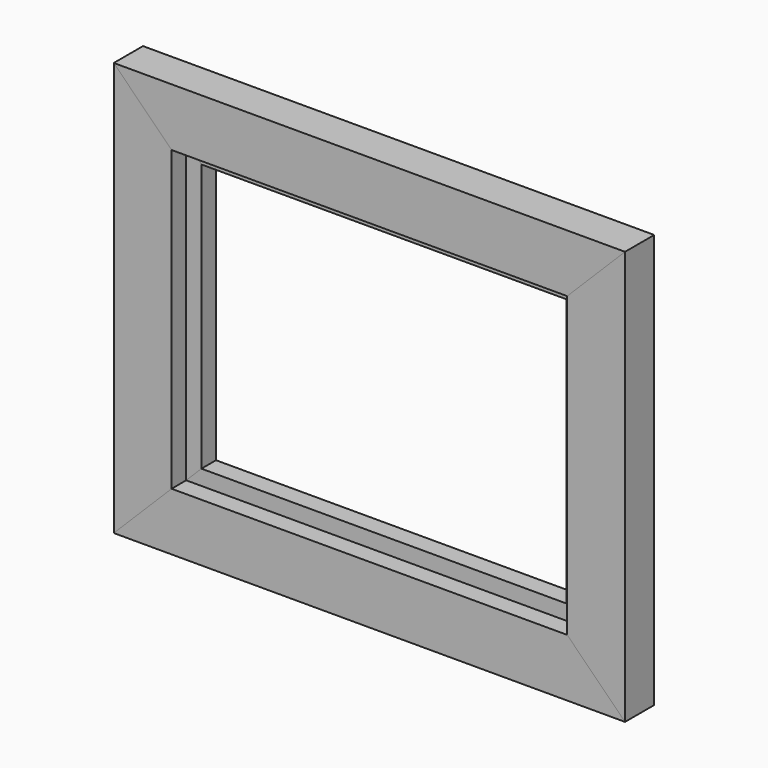
from build123d import *

# Parameters (mm, degrees)
F1_DEPTH = 19.05
F2_DEPTH = 19.05
F3_DEPTH = 19.05
F4_DEPTH = 19.05
F6_DEPTH = 9.525


with BuildPart() as f1:
    # F0 (on Front) → F1 (new body)
    with BuildSketch(Plane.XZ):
        Polygon((-38.1, -38.1), (0, 0), (0, 139.7), (-38.1, 177.8), align=None)
    extrude(amount=F1_DEPTH)


with BuildPart() as f2:
    # F0 (on Front) → F2 (new body)
    with BuildSketch(Plane.XZ):
        Polygon((-38.1, 177.8), (0, 139.7), (190.5, 139.7), (228.6, 177.8), align=None)
    extrude(amount=F2_DEPTH)


with BuildPart() as f3:
    # F0 (on Front) → F3 (new body)
    with BuildSketch(Plane.XZ):
        Polygon((190.5, 139.7), (190.5, 0), (228.6, -38.1), (228.6, 177.8), align=None)
    extrude(amount=F3_DEPTH)


with BuildPart() as f4:
    # F0 (on Front) → F4 (new body)
    with BuildSketch(Plane.XZ):
        Polygon((190.5, 0), (0, 0), (-38.1, -38.1), (228.6, -38.1), align=None)
    extrude(amount=F4_DEPTH)


with BuildPart() as f6_tool:
    # F5 (on face) → F6 (new body)
    with BuildSketch(Plane.XZ.offset(19.05)):
        Polygon((-7.9375, 147.6375), (0, 139.7), (190.5, 139.7), (198.4375, 147.6375), align=None)
        Polygon((0, 0), (0, 139.7), (-7.9375, 147.6375), (-7.9375, -7.9375), align=None)
        Polygon((190.5, 0), (0, 0), (-7.9375, -7.9375), (198.4375, -7.9375), align=None)
        Polygon((198.4375, 147.6375), (190.5, 139.7), (190.5, 0), (198.4375, -7.9375), align=None)
    extrude(amount=-F6_DEPTH)


with BuildPart() as f1_1:
    add(f1.part)

    # F6: cut by f6_tool
    add(f6_tool.part, mode=Mode.SUBTRACT)


with BuildPart() as f2_1:
    add(f2.part)

    # F6: cut by f6_tool
    add(f6_tool.part, mode=Mode.SUBTRACT)


with BuildPart() as f3_1:
    add(f3.part)

    # F6: cut by f6_tool
    add(f6_tool.part, mode=Mode.SUBTRACT)


with BuildPart() as f4_1:
    add(f4.part)

    # F6: cut by f6_tool
    add(f6_tool.part, mode=Mode.SUBTRACT)


solid = Compound([f1_1.part, f2_1.part, f3_1.part, f4_1.part])
